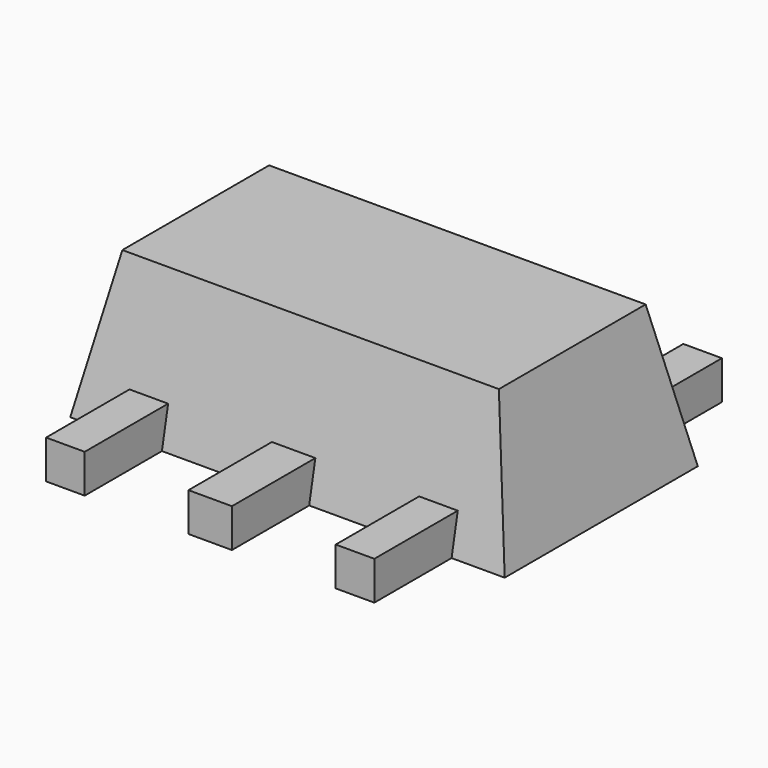
from build123d import *

# Parameters (mm, degrees)
SKETCH_W      = 4.5
SKETCH_H      = 2.5
SKETCH001_W   = 3.9
SKETCH001_H   = 1.9
SKETCH002_W   = 0.4
SKETCH002_H   = 0.4
SKETCH002_W_2 = 0.45
PAD_DEPTH     = 4.5


with BuildPart() as part:
    # Sketch → AdditiveLoft section 0
    with BuildSketch(Plane.XY):
        Rectangle(SKETCH_W, SKETCH_H)
    # Sketch001 (on DatumPlane) → AdditiveLoft section 1
    with BuildSketch(Plane.XY.offset(1.5)):
        Rectangle(SKETCH001_W, SKETCH001_H)
    loft()

    # Sketch002 (on DatumPlane) → Pad (new body)
    with BuildSketch(Plane.XZ.offset(2.25)):
        with Locations((-1.5, 0.2)):
            Rectangle(SKETCH002_W, SKETCH002_H)
        with Locations((1.5, 0.2)):
            Rectangle(SKETCH002_W, SKETCH002_H)
        with Locations((0, 0.2)):
            Rectangle(SKETCH002_W_2, SKETCH002_H)
    extrude(amount=-PAD_DEPTH)


solid = part.part
